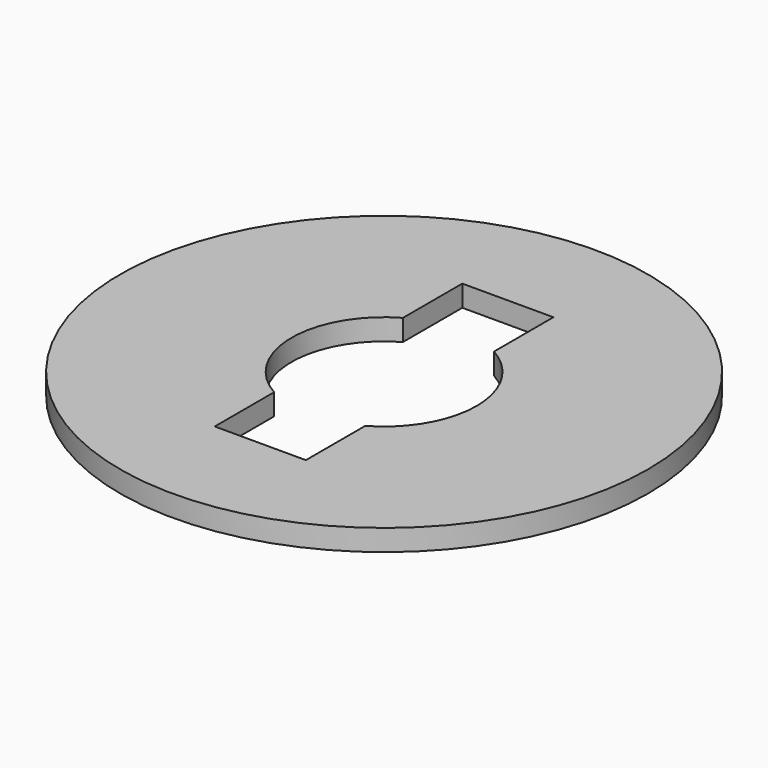
from build123d import *

# Parameters (mm, degrees)
F0_R     = 31.4452
F1_DEPTH = 2.54


with BuildPart() as f1:
    # F0 (on Top) → F1 (new body)
    with BuildSketch(Plane.XY):
        Circle(F0_R)
        with BuildLine():
            ThreePointArc((5.427667, 9.590183), (9.519501, 5.550701), (11.019582, 0))
            ThreePointArc((11.019582, 0), (9.519501, -5.550701), (5.427667, -9.590183))
            Line((5.427667, -9.590183), (5.427667, -18.431451))
            Line((5.427667, -18.431451), (-5.427667, -18.431451))
            Line((-5.427667, -18.431451), (-5.427667, -9.590183))
            ThreePointArc((-5.427667, -9.590183), (-11.019582, 0), (-5.427667, 9.590183))
            Line((-5.427667, 9.590183), (-5.427667, 18.431451))
            Line((-5.427667, 18.431451), (5.427667, 18.431451))
            Line((5.427667, 18.431451), (5.427667, 9.590183))
        make_face(mode=Mode.SUBTRACT)
    extrude(amount=F1_DEPTH)


solid = f1.part
